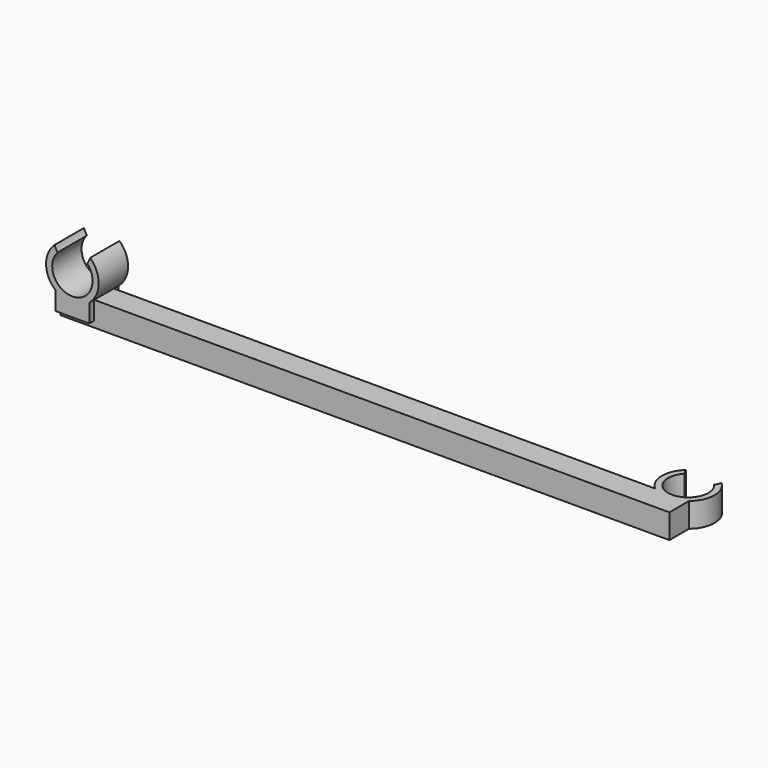
from build123d import *

# Parameters (mm, degrees)
F0_W     = 94
F0_H     = 4
F1_DEPTH = 4
F3_DEPTH = 5
F4_DEPTH = 1


with BuildPart() as f1:
    # F0 (on Top) → F1 (new body)
    with BuildSketch(Plane.XY):
        with BuildLine():
            ThreePointArc((2.426764, 2.23625), (0, -3.3), (-2.426764, 2.23625))
            ThreePointArc((-2.426764, 2.23625), (-2.699268, 2.69082), (-2.887527, 3.18625))
            ThreePointArc((-2.887527, 3.18625), (-4.299127, -0.08664), (-2.75681, -3.3))
            Line((-2.75681, -3.3), (-2.75681, -7.3))
            Line((-2.75681, -7.3), (2.75681, -7.3))
            Line((2.75681, -7.3), (2.75681, -3.3))
            ThreePointArc((2.75681, -3.3), (4.299127, -0.08664), (2.887527, 3.18625))
            ThreePointArc((2.887527, 3.18625), (2.699268, 2.69082), (2.426764, 2.23625))
        make_face()
        with Locations((-49.75681, -5.3)):
            Rectangle(F0_W, F0_H)
    extrude(amount=F1_DEPTH)

    # F2 (on face) → F3 (join)
    with BuildSketch(Plane.XZ.offset(7.3)):
        with BuildLine():
            ThreePointArc((-91.573236, 9.53625), (-94, 4), (-96.426764, 9.53625))
            ThreePointArc((-96.426764, 9.53625), (-96.699268, 9.99082), (-96.887527, 10.48625))
            ThreePointArc((-96.887527, 10.48625), (-98.299127, 7.21336), (-96.75681, 4))
            Line((-96.75681, 4), (-96.75681, 1))
            Line((-96.75681, 1), (-91.24319, 1))
            Line((-91.24319, 1), (-91.24319, 4))
            ThreePointArc((-91.24319, 4), (-89.700873, 7.21336), (-91.112473, 10.48625))
            ThreePointArc((-91.112473, 10.48625), (-91.300732, 9.99082), (-91.573236, 9.53625))
        make_face()
    extrude(amount=-F3_DEPTH)

    # F2 (on face) → F4 (join)
    with BuildSketch(Plane.XZ.offset(7.3)):
        with BuildLine():
            ThreePointArc((-91.573236, 9.53625), (-94, 4), (-96.426764, 9.53625))
            ThreePointArc((-96.426764, 9.53625), (-96.699268, 9.99082), (-96.887527, 10.48625))
            ThreePointArc((-96.887527, 10.48625), (-98.299127, 7.21336), (-96.75681, 4))
            Line((-96.75681, 4), (-96.75681, 1))
            Line((-96.75681, 1), (-91.24319, 1))
            Line((-91.24319, 1), (-91.24319, 4))
            ThreePointArc((-91.24319, 4), (-89.700873, 7.21336), (-91.112473, 10.48625))
            ThreePointArc((-91.112473, 10.48625), (-91.300732, 9.99082), (-91.573236, 9.53625))
        make_face()
    extrude(amount=F4_DEPTH)


solid = f1.part
